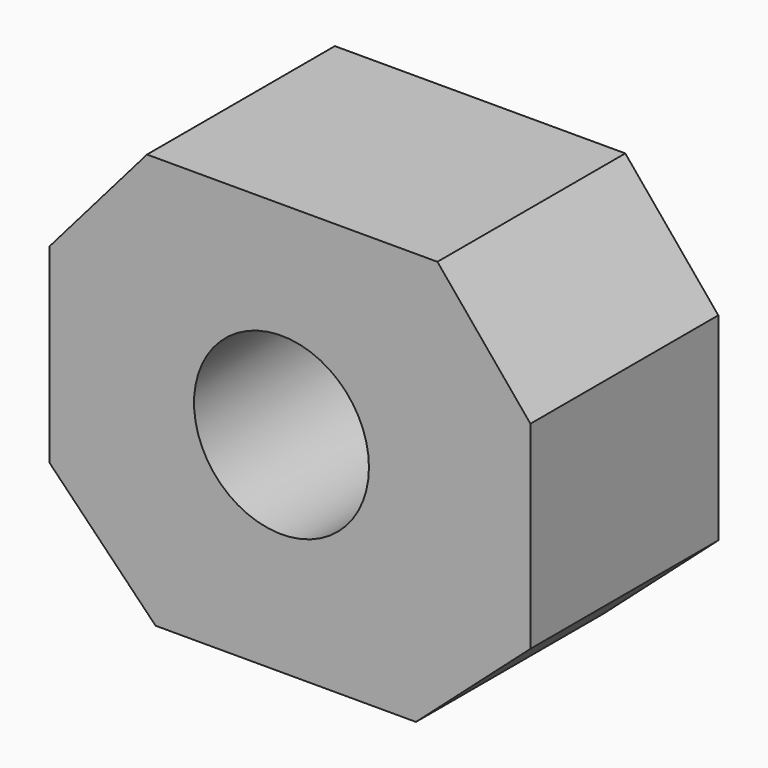
from build123d import *

# Parameters (mm, degrees)
F0_W     = 103.9975248277
F0_H     = 89.1407411546
F1_DEPTH = 50.8
F2_R     = 18.9210521973
F3_DEPTH = 50.801
F5_DEPTH = 50.801


with BuildPart() as f1:
    # F0 (on Front) → F1 (new body)
    with BuildSketch(Plane.XZ):
        with Locations((1.8570963293, -20.2733287588)):
            Rectangle(F0_W, F0_H)
    extrude(amount=F1_DEPTH)

    # F2 (on face) → F3 (cut, through all)
    with BuildSketch(Plane.XZ.offset(50.8)):
        with Locations((0, -19.6542944759)):
            Circle(F2_R)
    extrude(amount=-F3_DEPTH, mode=Mode.SUBTRACT)

    # F4 (on face) → F5 (cut, through all)
    with BuildSketch(Plane.XZ.offset(50.8)):
        Polygon((-50.1416660845, 24.2970418185), (-50.1416660845, 0), (-29.0945451707, 24.2970418185), align=None)
        Polygon((53.8558587432, 24.2970418185), (33.7372943759, 24.2970418185), (53.8558587432, 0), align=None)
        Polygon((-27.2374469787, -64.8436993361), (-50.1416660845, -41.3204431534), (-50.1416660845, -64.8436993361), align=None)
        Polygon((53.8558587432, -42.8680256009), (29.094548896, -64.8436993361), (53.8558587432, -64.8436993361), align=None)
    extrude(amount=-F5_DEPTH, mode=Mode.SUBTRACT)


solid = f1.part
